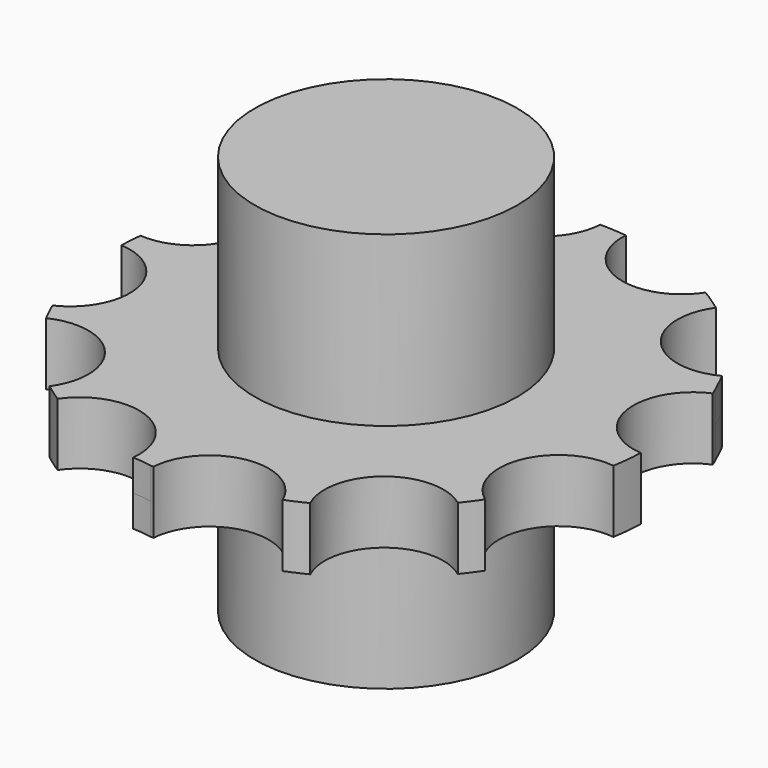
from build123d import *

# Parameters (mm, degrees)
F0_R     = 29.4867202457
F1_DEPTH = 44.92278
F2_DEPTH = 7.04213


with BuildPart() as f1:
    # F0 (on Top) → F1 (new body, symmetric)
    with BuildSketch(Plane.XY):
        Circle(F0_R)
    extrude(amount=F1_DEPTH, both=True)

    # F0 (on Top) → F2 (join, symmetric)
    with BuildSketch(Plane.XY):
        with BuildLine():
            ThreePointArc((58.9776550723, -9.892571349), (59.4324126191, -6.503908286), (59.6956966757, -3.0950194222))
            ThreePointArc((59.6956966757, -3.0950194222), (47.5804145974, 8.0022540128), (55.418239177, 22.4417153388))
            ThreePointArc((55.418239177, 22.4417153388), (55.1742364165, 23.0418276243), (54.9238444358, 23.639302275))
            add(Edge.make_bspline(
                [(53.2929355583, 27.1570821889), (53.8058195676, 25.9269481027), (54.3003921435, 24.8517876925), (54.9238444358, 23.639302275)],
                knots=[0.56725547, 0.56725547, 0.56725547, 0.56725547, 0.5805558461, 0.5805558461, 0.5805558461, 0.5805558461], degree=3))
            ThreePointArc((53.2929355583, 27.1570821889), (52.9122543312, 27.9010770996), (52.5213683223, 28.6397615734))
            ThreePointArc((52.5213683223, 28.6397615734), (36.3202680611, 31.7369861674), (35.5092968815, 48.2115354968))
            ThreePointArc((35.5092968815, 48.2115354968), (33.041852917, 49.9541430067), (30.4907886637, 51.5718672806))
            ThreePointArc((30.4907886637, 51.5718672806), (15.0621653902, 46.2128501868), (6.0057230515, 59.8048453491))
            ThreePointArc((6.0057230515, 59.8048453491), (2.9975743257, 60.0549948491), (-0.019289503, 60.1553251398))
            ThreePointArc((-0.019289503, 60.1553251398), (-10.617752375, 47.8334628697), (-25.257316082, 54.8931285501))
            ThreePointArc((-25.257316082, 54.8931285501), (-26.2857331385, 54.4229538448), (-27.3052152256, 53.9337073121))
            add(Edge.make_bspline(
                [(-29.953732976, 52.5488545273), (-28.8923171261, 53.027753523), (-28.1065277173, 53.4503486817), (-27.3052152256, 53.9337073121)],
                knots=[0.3102659362, 0.3102659362, 0.3102659362, 0.3102659362, 0.3216567456, 0.3216567456, 0.3216567456, 0.3216567456], degree=3))
            ThreePointArc((-29.953732976, 52.5488545273), (-32.7707242764, 36.2025190887), (-49.3295768829, 35.2316830501))
            add(Edge.make_bspline(
                [(-51.6588347941, 31.851412745), (-50.7577935832, 32.9784280667), (-50.1458504946, 33.8251168375), (-49.3295768829, 35.2316830501)],
                knots=[0.2309522539, 0.2309522539, 0.2309522539, 0.2309522539, 0.2471493666, 0.2471493666, 0.2471493666, 0.2471493666], degree=3))
            ThreePointArc((-51.6588347941, 31.851412745), (-51.8865590274, 31.4845293815), (-52.111668167, 31.1160356853))
            ThreePointArc((-52.111668167, 31.1160356853), (-46.5834367061, 15.587117528), (-60.3611525967, 6.5381846043))
            ThreePointArc((-60.3611525967, 6.5381846043), (-60.5778842036, 4.0665152318), (-60.6934484374, 1.5880546241))
            ThreePointArc((-60.6934484374, 1.5880546241), (-48.422804418, -9.2298651444), (-55.8536466484, -23.8030829263))
            ThreePointArc((-55.8536466484, -23.8030829263), (-54.8347954428, -26.0645700035), (-53.7244236832, -28.2825547048))
            ThreePointArc((-53.7244236832, -28.2825547048), (-37.7413718957, -31.7271503769), (-37.0948977225, -48.0643856059))
            ThreePointArc((-37.0948977225, -48.0643856059), (-35.0919757697, -49.5456338873), (-33.0299760267, -50.94347146))
            ThreePointArc((-33.0299760267, -50.94347146), (-17.3164779728, -45.97528387), (-8.7633854017, -60.0622110185))
            add(Edge.make_bspline(
                [(-4.4163983106, -60.5261470002), (-5.9740039259, -60.2461625978), (-7.0424737143, -60.1131629427), (-8.7633854017, -60.0622110185)],
                knots=[0.900428758, 0.900428758, 0.900428758, 0.900428758, 0.9175808775, 0.9175808775, 0.9175808775, 0.9175808775], degree=3))
            ThreePointArc((-4.4163983106, -60.5261470002), (-4.1082067122, -60.5432937216), (-3.7999319238, -60.5588733951))
            ThreePointArc((-3.7999319238, -60.5588733951), (7.2880538559, -48.3287137543), (21.7778816674, -56.238525603))
            ThreePointArc((21.7778816674, -56.238525603), (24.0699254466, -55.2609794344), (26.3199274171, -54.1902075958))
            ThreePointArc((26.3199274171, -54.1902075958), (30.0453022482, -38.2097051827), (46.4518652744, -37.9276330687))
            ThreePointArc((46.4518652744, -37.9276330687), (47.9712169388, -35.9538313565), (49.4083302814, -33.9193712512))
            ThreePointArc((49.4083302814, -33.9193712512), (44.8510864777, -18.1853037559), (58.9776550723, -9.892571349))
        make_face()
        Circle(F0_R, mode=Mode.SUBTRACT)
    extrude(amount=F2_DEPTH, both=True)


solid = f1.part
